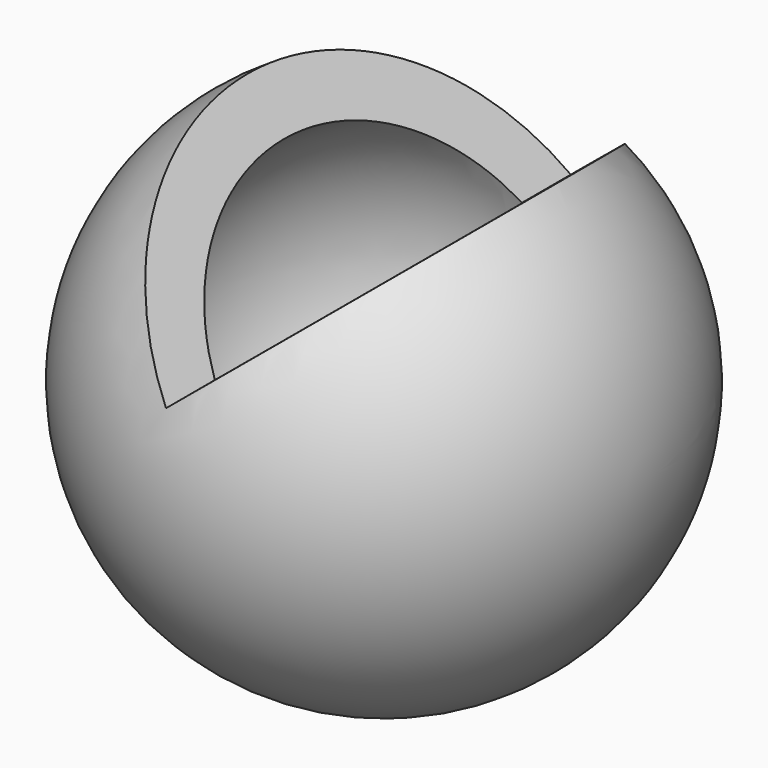
from build123d import *

# Parameters (mm, degrees)
F3_DEPTH = 115.6


with BuildPart() as f1:
    # F0 (on Top) → F1 (revolve)
    with BuildSketch(Plane.XY):
        with BuildLine():
            ThreePointArc((124.537553, -63.965612), (149.537553, -38.965612), (174.537553, -63.965612))
            Line((174.537553, -63.965612), (181.537553, -63.965612))
            ThreePointArc((181.537553, -63.965612), (149.537553, -31.965612), (117.537553, -63.965612))
            Line((117.537553, -63.965612), (124.537553, -63.965612))
        make_face()
    revolve(axis=Axis((149.537553, -63.965612, 0), (1, 0, 0)))

    # F2 (on Front) → F3 (cut)
    with BuildSketch(Plane.XZ):
        Polygon((190.89517, 44.802867), (119.320981, 44.802867), (147.656262, 8.923776), align=None)
    extrude(amount=F3_DEPTH, mode=Mode.SUBTRACT)


solid = f1.part
